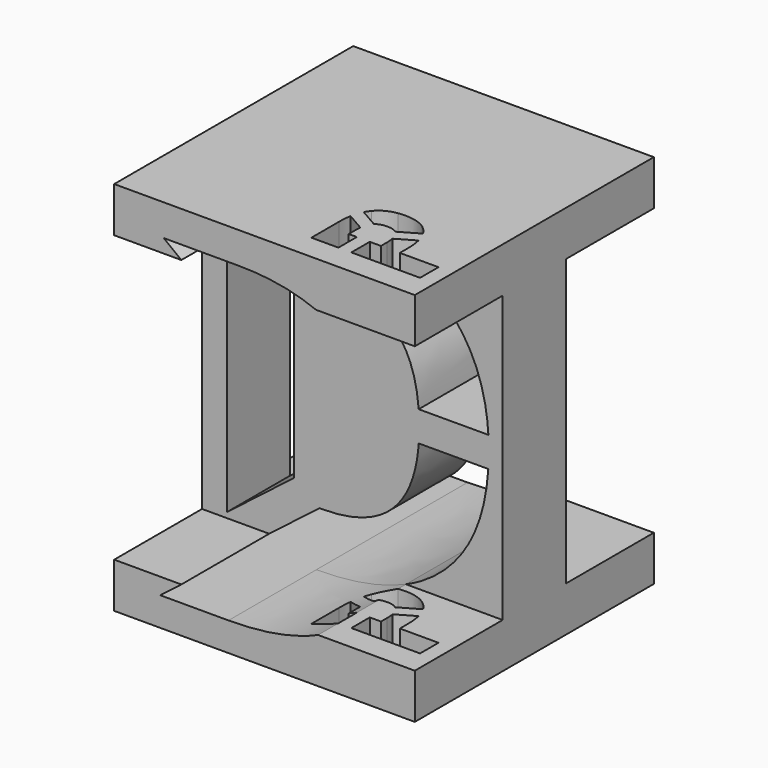
from build123d import *

# Parameters (mm, degrees)
F0_W          = 25.4
F0_H          = 31.75
F1_DEPTH      = 31.75
F3_DEPTH      = 25.401
F5_DEPTH      = 15.9659485267
F5_DEPTH_BACK = 9.2802512261
F7_DEPTH      = 27.9410001
F7_DEPTH_BACK = 3.8110001


with BuildPart() as f1:
    # F0 (on Front) → F1 (new body)
    with BuildSketch(Plane.XZ):
        Rectangle(F0_W, F0_H)
    extrude(amount=F1_DEPTH)

    # F2 (on face) → F3 (cut, through all)
    with BuildSketch(Plane(origin=(-12.7, 0, 0), x_dir=(0, -1, 0), z_dir=(-1, 0, 0))):
        Polygon((28.4970998764, -12.065), (28.4970998764, -15.875), (31.75, -15.875), (31.75, 15.875), (28.4970998764, 15.875), (28.4970998764, 12.065), (19.2178486503, 12.065), (19.2178486503, -12.065), align=None)
        Polygon((0, -15.875), (3.2529001236, -15.875), (3.2529001236, -12.065), (12.5412535983, -12.065), (12.5412535983, 12.065), (3.2529001236, 12.065), (3.2529001236, 15.875), (0, 15.875), align=None)
    extrude(amount=-F3_DEPTH, mode=Mode.SUBTRACT)

    # F4 (on face) → F5 (cut, two sides)
    with BuildSketch(Plane.XZ.offset(19.2178486503)) as f5_sk:
        with BuildLine():
            Line((-7.0266262717, 12.065), (4.352409395, 12.065))
            add(Edge.make_bspline(
                [(-2.2263699999, 13.2181600256), (1.5512330869, 13.2181600256), (4.352409395, 12.065)],
                knots=[0, 0, 0, 0.5784734607, 0.5784734607, 0.5784734607], degree=2))
            Line((-2.2263699999, 13.2181600256), (-8.5173521483, 13.2181600256))
            Line((-8.5173521483, 13.2181600256), (-7.0266262717, 12.065))
        make_face()
        with BuildLine():
            add(Edge.make_bspline(
                [(4.352409395, 12.065), (6.3935923283, 11.2247063859), (7.9163064347, 9.7721010873)],
                knots=[0.5784734607, 0.5784734607, 0.5784734607, 1, 1, 1], degree=2))
            Line((4.352409395, 12.065), (-7.0266262717, 12.065))
            Line((-7.0266262717, 12.065), (-2.5272874596, 8.5845092263))
            Line((-2.5272874596, 8.5845092263), (-1.9345783878, 8.5845092263))
            add(Edge.make_bspline(
                [(5.6040574297, 1.3056965875), (5.0488891237, 8.5845092263), (-1.9345783878, 8.5845092263)],
                knots=[0.079497514, 0.079497514, 0.079497514, 1, 1, 1], degree=2))
            Line((5.6040574297, 1.3056965875), (11.4947541533, 1.3134064718))
            add(Edge.make_bspline(
                [(7.9163064347, 9.7721010873), (11.1785767983, 6.6600321863), (11.4947541533, 1.3134064718)],
                knots=[0, 0, 0, 0.9030805789, 0.9030805789, 0.9030805789], degree=2))
        make_face()
        with BuildLine():
            Line((-2.7762448081, -8.7770916903), (-7.0266262717, -12.065))
            Line((-7.0266262717, -12.065), (4.5291964918, -12.065))
            add(Edge.make_bspline(
                [(7.7791643771, -9.9442581384), (6.3841904911, -11.2469574872), (4.5291964918, -12.065)],
                knots=[0, 0, 0, 0.3720404377, 0.3720404377, 0.3720404377], degree=2))
            add(Edge.make_bspline(
                [(11.4861920477, -1.22660691), (11.1295196627, -6.8155216849), (7.7791643771, -9.9442581384)],
                knots=[0.1064580782, 0.1064580782, 0.1064580782, 1, 1, 1], degree=2))
            Line((11.4861920477, -1.22660691), (5.6088596887, -1.2342993027))
            add(Edge.make_bspline(
                [(-2.5181616119, -8.7770916903), (5.0582929315, -8.7770916903), (5.6088596887, -1.2342993027)],
                knots=[0, 0, 0, 0.9273318735, 0.9273318735, 0.9273318735], degree=2))
            Line((-2.5181616119, -8.7770916903), (-2.7762448081, -8.7770916903))
        make_face()
        with BuildLine():
            Line((-7.0266262717, -12.065), (-8.8115744693, -13.4457574829))
            Line((-8.8115744693, -13.4457574829), (-3.0433865136, -13.4457574829))
            add(Edge.make_bspline(
                [(4.5291964918, -12.065), (1.3981894779, -13.4457574829), (-3.0433865136, -13.4457574829)],
                knots=[0.3720404377, 0.3720404377, 0.3720404377, 1, 1, 1], degree=2))
            Line((4.5291964918, -12.065), (-7.0266262717, -12.065))
        make_face()
        Polygon((-10.5949534333, 11.6140448943), (-10.5949534333, -11.6140448943), (-4.9400319919, -7.2396461828), (-4.9400319919, 7.2396461828), align=None)
    extrude(amount=-F5_DEPTH, mode=Mode.SUBTRACT)
    extrude(f5_sk.sketch, amount=F5_DEPTH_BACK, mode=Mode.SUBTRACT)

    # F6 (on face) → F7 (cut, two sides)
    with BuildSketch(Plane.XY.offset(-12.065)) as f7_sk:
        with BuildLine():
            Line((6.5686791611, -24.4064096872), (5.622370957, -24.4064096872))
            Line((5.622370957, -24.4064096872), (5.622370957, -26.3537515198))
            Line((5.622370957, -26.3537515198), (11.43, -26.3537515198))
            Line((11.43, -26.3537515198), (11.43, -24.4064096872))
            Line((11.43, -24.4064096872), (8.1643338722, -24.4064096872))
            Line((8.1643338722, -24.4064096872), (8.1643338722, -23.5724087992))
            add(Edge.make_bspline(
                [(8.0202774088, -22.2521717614), (8.1643338722, -22.8405387256), (8.1643338722, -23.5724087992)],
                knots=[0.571553453, 0.571553453, 0.571553453, 1, 1, 1], degree=2))
            Line((8.0202774088, -22.2521717614), (6.5124054248, -23.1227420573))
            add(Edge.make_bspline(
                [(6.5686791611, -23.7653343058), (6.5686791611, -23.4083290685), (6.5124054248, -23.1227420573)],
                knots=[0, 0, 0, 0.3983100939, 0.3983100939, 0.3983100939], degree=2))
            Line((6.5686791611, -23.7653343058), (6.5686791611, -24.4064096872))
        make_face()
        with BuildLine():
            add(Edge.make_bspline(
                [(4.5291964918, -22.0930291629), (4.5291964918, -21.5827366186), (4.5291964918, -21.0724440744), (4.5291964918, -20.5621515301), (4.5291964918, -20.0518589859)],
                knots=[0.6901495129, 0.6901495129, 0.6901495129, 0.6901495129, 0.6901495129, 0.9101209445, 0.9101209445, 0.9101209445, 0.9101209445, 0.9101209445], degree=4))
            add(Edge.make_bspline(
                [(5.1820270822, -21.9767540881), (4.7998185052, -21.9767540881), (4.5291964918, -22.0930291629)],
                knots=[0, 0, 0, 0.5577346589, 0.5577346589, 0.5577346589], degree=2))
            add(Edge.make_bspline(
                [(6.0225260151, -22.2323983194), (5.6946884836, -21.9767540881), (5.1820270822, -21.9767540881)],
                knots=[0.243023664, 0.243023664, 0.243023664, 1, 1, 1], degree=2))
            Line((6.0225260151, -22.2323983194), (7.6383830371, -21.2994828327))
            add(Edge.make_bspline(
                [(7.3795691811, -20.9377698493), (7.5218794811, -21.1057725338), (7.6383830371, -21.2994828327)],
                knots=[0, 0, 0, 0.1813413646, 0.1813413646, 0.1813413646], degree=2))
            add(Edge.make_bspline(
                [(5.1116896579, -20.0113254894), (6.5948044901, -20.0113254894), (7.3795691811, -20.9377698493)],
                knots=[0, 0, 0, 1, 1, 1], degree=2))
            add(Edge.make_bspline(
                [(4.5291964918, -20.0518589859), (4.8039953786, -20.0113254894), (5.1116896579, -20.0113254894)],
                knots=[0.7840492233, 0.7840492233, 0.7840492233, 1, 1, 1], degree=2))
        make_face()
        with BuildLine():
            add(Edge.make_bspline(
                [(4.5291964918, -26.3537515198), (4.5291964918, -25.8669160617), (4.5291964918, -25.3800806035), (4.5291964918, -24.8932451454), (4.5291964918, -24.4064096872)],
                knots=[0.2309828999, 0.2309828999, 0.2309828999, 0.2309828999, 0.2309828999, 0.4408427027, 0.4408427027, 0.4408427027, 0.4408427027, 0.4408427027], degree=4))
            Line((4.5291964918, -24.4064096872), (3.84360638, -24.4064096872))
            Line((3.84360638, -24.4064096872), (3.84360638, -23.5221677819))
            add(Edge.make_bspline(
                [(3.858122212, -23.2046020825), (3.84360638, -23.3539608074), (3.84360638, -23.5221677819)],
                knots=[0.7891687051, 0.7891687051, 0.7891687051, 1, 1, 1], degree=2))
            Line((3.858122212, -23.2046020825), (2.3400266918, -22.3281292252))
            add(Edge.make_bspline(
                [(2.2479516689, -23.4216857472), (2.2479516689, -22.8235332241), (2.3400266918, -22.3281292252)],
                knots=[0, 0, 0, 0.3577422188, 0.3577422188, 0.3577422188], degree=2))
            Line((2.2479516689, -23.4216857472), (2.2479516689, -26.3537515198))
            Line((2.2479516689, -26.3537515198), (4.5291964918, -26.3537515198))
        make_face()
        with BuildLine():
            Line((2.664390889, -21.3422252348), (4.2580912923, -22.2623485917))
            add(Edge.make_bspline(
                [(4.5291964918, -22.0930291629), (4.3756926683, -22.1589834004), (4.2580912923, -22.2623485917)],
                knots=[0.5577346589, 0.5577346589, 0.5577346589, 0.8740962201, 0.8740962201, 0.8740962201], degree=2))
            add(Edge.make_bspline(
                [(4.5291964918, -22.0930291629), (4.5291964918, -21.5827366186), (4.5291964918, -21.0724440744), (4.5291964918, -20.5621515301), (4.5291964918, -20.0518589859)],
                knots=[0.6901495129, 0.6901495129, 0.6901495129, 0.6901495129, 0.6901495129, 0.9101209445, 0.9101209445, 0.9101209445, 0.9101209445, 0.9101209445], degree=4))
            add(Edge.make_bspline(
                [(2.9674030374, -20.8804950895), (3.531488324, -20.1990233396), (4.5291964918, -20.0518589859)],
                knots=[0, 0, 0, 0.7840492233, 0.7840492233, 0.7840492233], degree=2))
            add(Edge.make_bspline(
                [(2.664390889, -21.3422252348), (2.795316051, -21.0883934739), (2.9674030374, -20.8804950895)],
                knots=[0.7608080353, 0.7608080353, 0.7608080353, 1, 1, 1], degree=2))
        make_face()
    extrude(amount=F7_DEPTH, mode=Mode.SUBTRACT)
    extrude(f7_sk.sketch, amount=-F7_DEPTH_BACK, mode=Mode.SUBTRACT)


solid = f1.part
